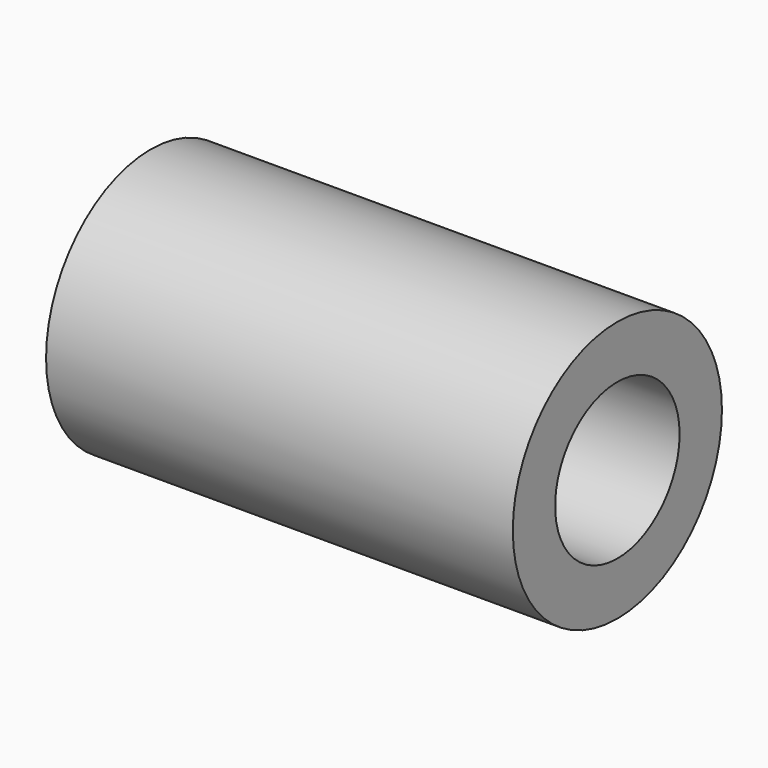
from build123d import *

# Parameters (mm, degrees)
SKETCH_R   = 10.668
SKETCH_R_2 = 6.35
PAD_DEPTH  = 38.1


with BuildPart() as part:
    # Sketch → Pad (new body)
    with BuildSketch(Plane.YZ):
        Circle(SKETCH_R)
        Circle(SKETCH_R_2, mode=Mode.SUBTRACT)
    extrude(amount=PAD_DEPTH)


solid = part.part
